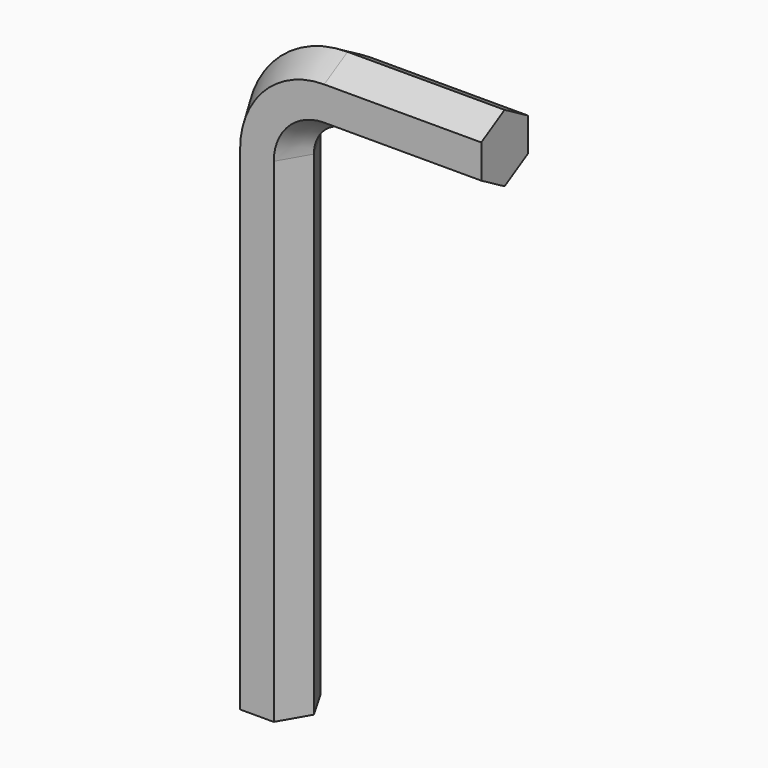
from build123d import *


with BuildPart() as f2:
    # F2: sweep along a path in F0
    with BuildLine(Plane.XZ) as f2_path:
        Line((0, 0), (0, 2.2))
        ThreePointArc((0, 2.2), (0.087868, 2.412132), (0.3, 2.5))
        Line((0.3, 2.5), (1, 2.5))
    # F1 (on Top) → F2 (sweep)
    with BuildSketch(Plane.XY):
        Polygon((0.075, 0.129904), (-0.075, 0.129904), (-0.15, 0), (-0.075, -0.129904), (0.075, -0.129904), (0.15, 0), align=None)
    sweep(path=f2_path.line)


solid = f2.part
